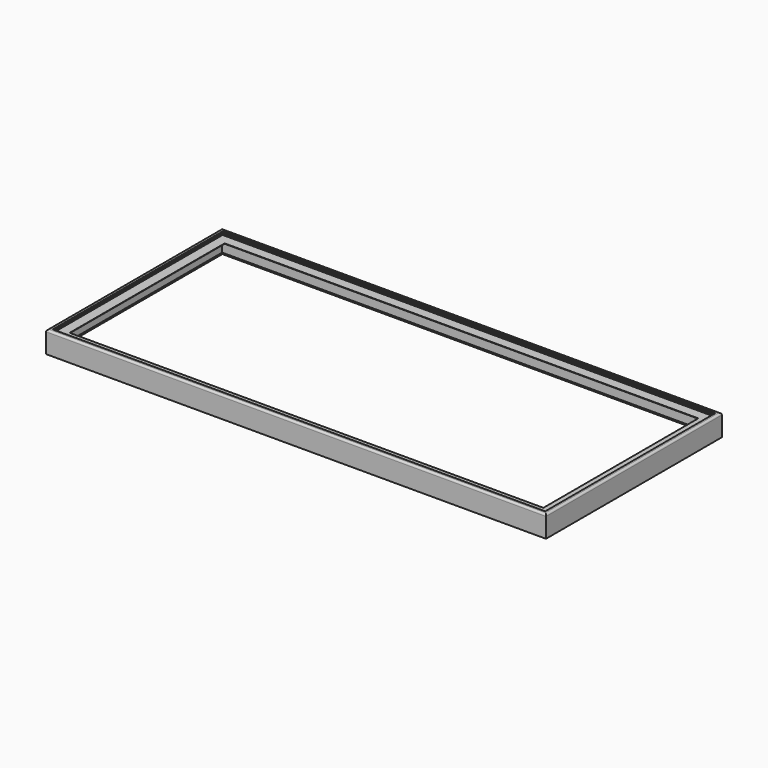
from build123d import *


with BuildPart() as f2:
    # F2: sweep along a path in F1
    with BuildLine(Plane.XY) as f2_path:
        Line((0, 717.2), (0, 6))
        Line((0, 6), (1631.95, 6))
        Line((1631.95, 6), (1631.95, 717.2))
        Line((1631.95, 717.2), (0, 717.2))
    # F0 (on Right) → F2 (sweep)
    with BuildSketch(Plane.YZ):
        with BuildLine():
            Line((0, -6), (0, -70.7))
            Line((0, -70.7), (6, -70.7))
            Line((6, -70.7), (6, -68))
            Line((6, -68), (4.8, -68))
            Line((4.8, -68), (4.8, -69.5))
            Line((4.8, -69.5), (1.5, -69.5))
            Line((1.5, -69.5), (1.5, -6))
            ThreePointArc((1.5, -6), (2.8180194847, -2.8180194847), (6, -1.5))
            Line((6, -1.5), (8.6, -1.5))
            Line((8.6, -1.5), (8.6, -9.4503759398))
            Line((8.6, -9.4503759398), (6, -12.5))
            Line((6, -12.5), (6, -13.7))
            Line((6, -13.7), (6.5538461538, -13.7))
            Line((6.5538461538, -13.7), (8.6, -11.3))
            Line((8.6, -11.3), (8.6, -13.7))
            Line((8.6, -13.7), (43.1, -13.7))
            Line((43.1, -13.7), (43.1, -12.5))
            Line((43.1, -12.5), (9.8, -12.5))
            Line((9.8, -12.5), (9.8, -4.5))
            Line((9.8, -4.5), (13.5, -4.5))
            Line((13.5, -4.5), (13.5, -3.3))
            Line((13.5, -3.3), (9.8, -3.3))
            Line((9.8, -3.3), (9.8, -1.5))
            Line((9.8, -1.5), (12.2, -1.5))
            Line((12.2, -1.5), (12.2, 0))
            Line((12.2, 0), (6, 0))
            ThreePointArc((6, 0), (1.7573593129, -1.7573593129), (0, -6))
        make_face()
    sweep(path=f2_path.line, transition=Transition.RIGHT)


solid = f2.part
